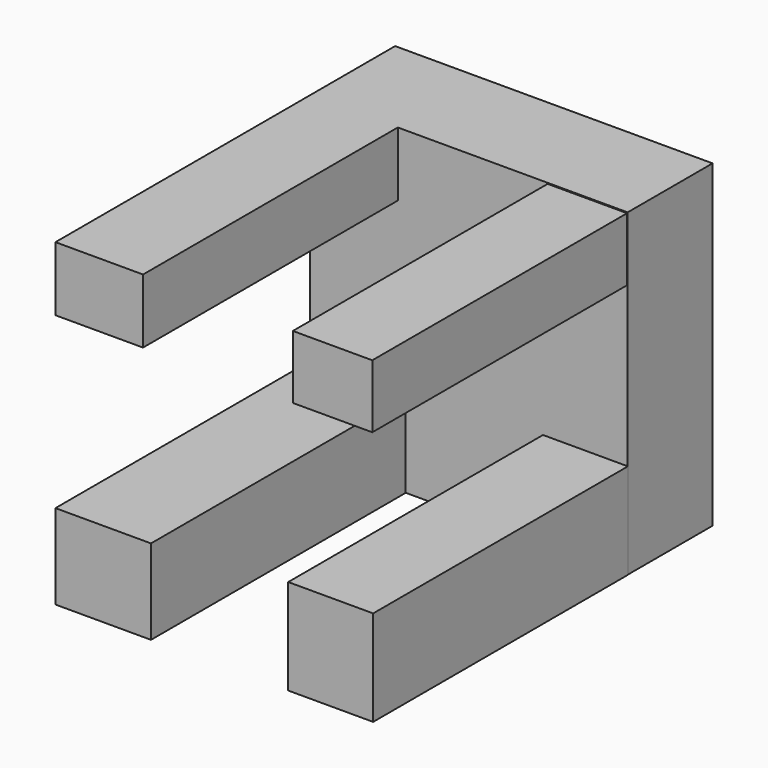
from build123d import *

# Parameters (mm, degrees)
F0_W     = 75.953597
F0_H     = 76.343752
F1_DEPTH = 25.4
F2_W     = 22.86
F2_H     = 20.32
F2_W_2   = 20.958833
F2_H_2   = 15.39883
F3_DEPTH = 76.2
F5_W     = 20.32
F5_H     = 22.86
F5_W_2   = 19.010187
F5_H_2   = 15.167706
F6_DEPTH = 76.2


with BuildPart() as f1:
    # F0 (on Front) → F1 (new body)
    with BuildSketch(Plane.XZ):
        with Locations((39.394597, 38.171876)):
            Rectangle(F0_W, F0_H)
    extrude(amount=F1_DEPTH)

    # F2 (on face) → F3 (join)
    with BuildSketch(Plane.XZ.offset(25.4)):
        with Locations((12.847799, 10.16)):
            Rectangle(F2_W, F2_H)
        with Locations((11.897215, 68.644337)):
            Rectangle(F2_W_2, F2_H_2)
    extrude(amount=F3_DEPTH)

    # F5 (on face) → F6 (join)
    with BuildSketch(Plane.XZ.offset(25.4)):
        with Locations((67.275393, 11.43)):
            Rectangle(F5_W, F5_H)
        with Locations((67.728057, 68.528775)):
            Rectangle(F5_W_2, F5_H_2)
    extrude(amount=F6_DEPTH)


solid = f1.part
